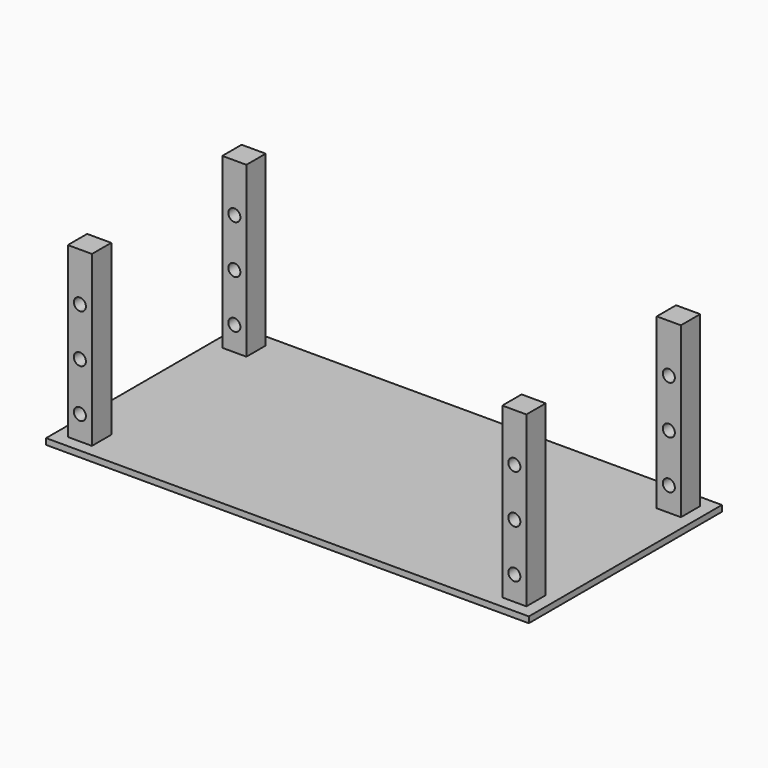
from build123d import *

# Parameters (mm, degrees)
F0_W      = 2000
F0_H      = 1000
F1_DEPTH  = 25
F2_W      = 100
F2_H      = 100
F3_DEPTH  = 700
F4_R      = 25
F5_DEPTH  = 100
F6_W      = 100
F6_H      = 100
F7_DEPTH  = 700
F8_R      = 25
F9_DEPTH  = 100
F10_W     = 100
F10_H     = 100
F11_DEPTH = 700
F12_R     = 25
F13_DEPTH = 100
F14_W     = 100
F14_H     = 100
F15_DEPTH = 700
F16_R     = 25
F17_DEPTH = 100


with BuildPart() as f1:
    # F0 (on Top) → F1 (new body)
    with BuildSketch(Plane.XY):
        with Locations((7.790016, -81.412016)):
            Rectangle(F0_W, F0_H)
    extrude(amount=F1_DEPTH)

    # F2 (on face) → F3 (join)
    with BuildSketch(Plane.XY.offset(25)):
        with Locations((-892.209984, 318.587984)):
            Rectangle(F2_W, F2_H)
    extrude(amount=F3_DEPTH)

    # F4 (on face) → F5 (cut)
    with BuildSketch(Plane(origin=(0, 368.587984, 0), x_dir=(-1, 0, 0), z_dir=(0, 1, 0))):
        with Locations((892.209984, 125)):
            Circle(F4_R)
        with Locations((892.209984, 325)):
            Circle(F4_R)
        with Locations((892.209984, 525)):
            Circle(F4_R)
    extrude(amount=-F5_DEPTH, mode=Mode.SUBTRACT)

    # F6 (on face) → F7 (join)
    with BuildSketch(Plane.XY.offset(25)):
        with Locations((907.790016, 318.587984)):
            Rectangle(F6_W, F6_H)
    extrude(amount=F7_DEPTH)

    # F8 (on face) → F9 (cut)
    with BuildSketch(Plane(origin=(0, 368.587984, 0), x_dir=(-1, 0, 0), z_dir=(0, 1, 0))):
        with Locations((-907.790016, 125)):
            Circle(F8_R)
        with Locations((-907.790016, 325)):
            Circle(F8_R)
        with Locations((-907.790016, 525)):
            Circle(F8_R)
    extrude(amount=-F9_DEPTH, mode=Mode.SUBTRACT)

    # F10 (on face) → F11 (join)
    with BuildSketch(Plane.XY.offset(25)):
        with Locations((-892.209984, -481.412016)):
            Rectangle(F10_W, F10_H)
    extrude(amount=F11_DEPTH)

    # F12 (on face) → F13 (cut)
    with BuildSketch(Plane.XZ.offset(531.412016)):
        with Locations((-892.209984, 525)):
            Circle(F12_R)
        with Locations((-892.209984, 325)):
            Circle(F12_R)
        with Locations((-892.209984, 125)):
            Circle(F12_R)
    extrude(amount=-F13_DEPTH, mode=Mode.SUBTRACT)

    # F14 (on face) → F15 (join)
    with BuildSketch(Plane.XY.offset(25)):
        with Locations((907.790016, -481.412016)):
            Rectangle(F14_W, F14_H)
    extrude(amount=F15_DEPTH)

    # F16 (on face) → F17 (cut)
    with BuildSketch(Plane.XZ.offset(531.412016)):
        with Locations((907.790016, 525)):
            Circle(F16_R)
        with Locations((907.790016, 325)):
            Circle(F16_R)
        with Locations((907.790016, 125)):
            Circle(F16_R)
    extrude(amount=-F17_DEPTH, mode=Mode.SUBTRACT)


solid = f1.part
